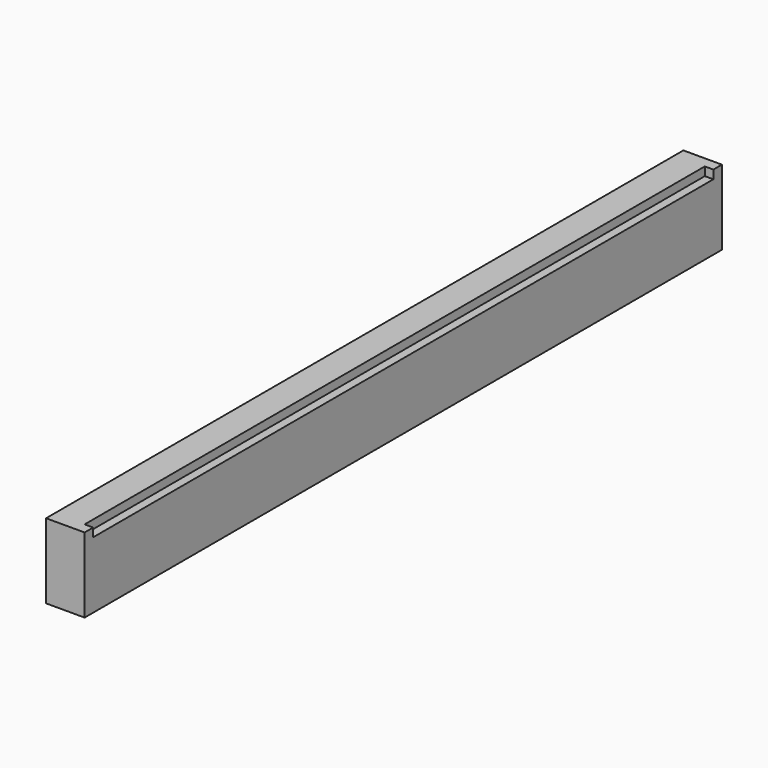
from build123d import *

# Parameters (mm, degrees)
F0_W     = 5
F0_H     = 4
F1_DEPTH = 18
F0_W_2   = 362
F2_DEPTH = 14


with BuildPart() as f1:
    # F0 (on Right) → F1 (new body)
    with BuildSketch(Plane.YZ):
        Polygon((0, 31), (0, 0), (372, 0), (372, 31), (367, 31), (5, 31), align=None)
        with Locations((2.5, 33)):
            Rectangle(F0_W, F0_H)
        with Locations((369.5, 33)):
            Rectangle(F0_W, F0_H)
    extrude(amount=F1_DEPTH)

    # F0 (on Right) → F2 (join)
    with BuildSketch(Plane.YZ):
        with Locations((186, 33)):
            Rectangle(F0_W_2, F0_H)
    extrude(amount=F2_DEPTH)


solid = f1.part
